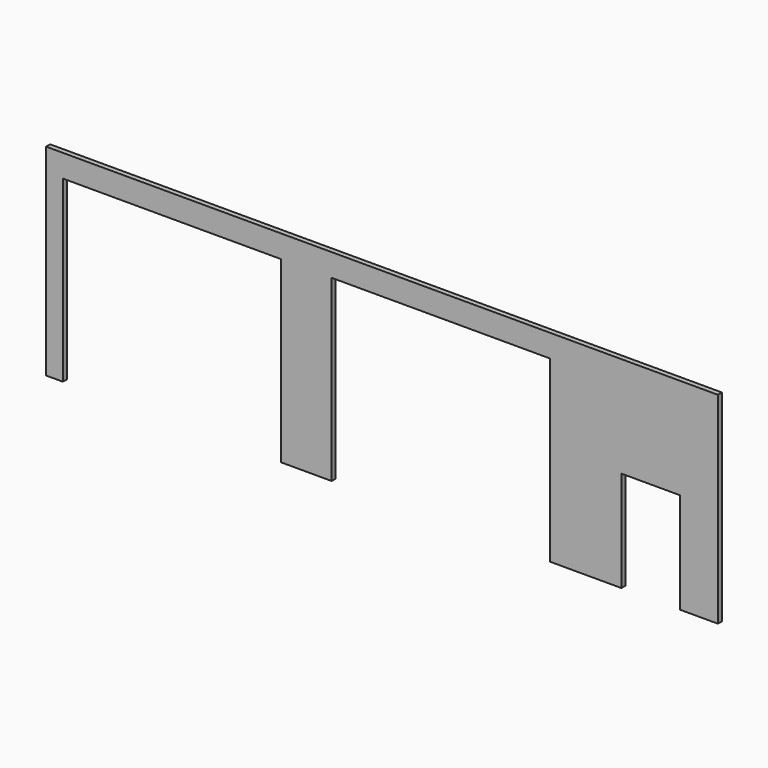
from build123d import *

# Parameters (mm, degrees)
F0_W     = 12192
F0_H     = 91.44
F1_DEPTH = 3657.6
F2_W     = 3962.4
F2_H     = 3246.574109
F3_DEPTH = 1676.4
F2_W_2   = 1066.8
F2_H_2   = 1828.8
F4_DEPTH = 1862.328


with BuildPart() as f1:
    # F0 (on Top) → F1 (new body)
    with BuildSketch(Plane.XY):
        with Locations((-31.802535, -66.962735)):
            Rectangle(F0_W, F0_H)
    extrude(amount=F1_DEPTH)

    # F2 (on face) → F3 (cut)
    with BuildSketch(Plane.XZ.offset(112.682735)):
        with Locations((1034.997465, 1623.287054)):
            Rectangle(F2_W, F2_H)
    extrude(amount=-F3_DEPTH, mode=Mode.SUBTRACT)

    # F2 (on face) → F4 (cut)
    with BuildSketch(Plane.XZ.offset(112.682735)):
        with Locations((-3841.802535, 1623.287054)):
            Rectangle(F2_W, F2_H)
        with Locations((1034.997465, 1623.287054)):
            Rectangle(F2_W, F2_H)
        with Locations((4846.87084, 914.4)):
            Rectangle(F2_W_2, F2_H_2)
    extrude(amount=-F4_DEPTH, mode=Mode.SUBTRACT)


solid = f1.part
